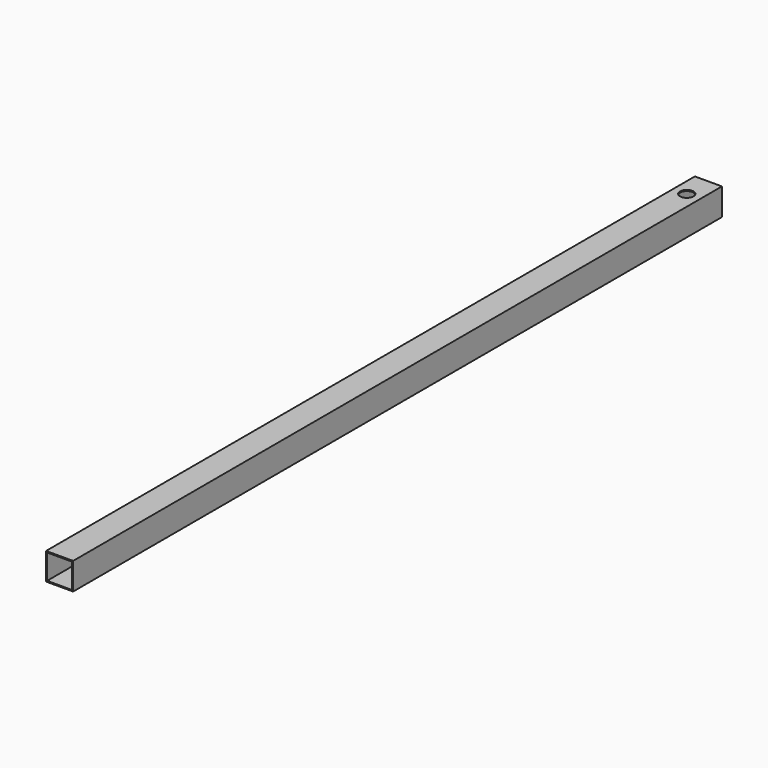
from build123d import *

# Parameters (mm, degrees)
F0_W     = 100
F0_H     = 100
F1_DEPTH = 3000
F2_W     = 92
F2_H     = 92
F3_DEPTH = 3000.001
F4_R     = 25
F5_DEPTH = 4


with BuildPart() as f1:
    # F0 (on Front) → F1 (new body)
    with BuildSketch(Plane.XZ):
        with Locations((50, 50)):
            Rectangle(F0_W, F0_H)
    extrude(amount=F1_DEPTH)

    # F2 (on face) → F3 (cut, through all)
    with BuildSketch(Plane(origin=(0, 0, 0), x_dir=(-1, 0, 0), z_dir=(0, 1, 0))):
        with Locations((-50, 50)):
            Rectangle(F2_W, F2_H)
    extrude(amount=-F3_DEPTH, mode=Mode.SUBTRACT)

    # F4 (on face) → F5 (cut, through all)
    with BuildSketch(Plane.XY.offset(100)):
        with Locations((50, -100)):
            Circle(F4_R)
    extrude(amount=-F5_DEPTH, mode=Mode.SUBTRACT)


solid = f1.part
